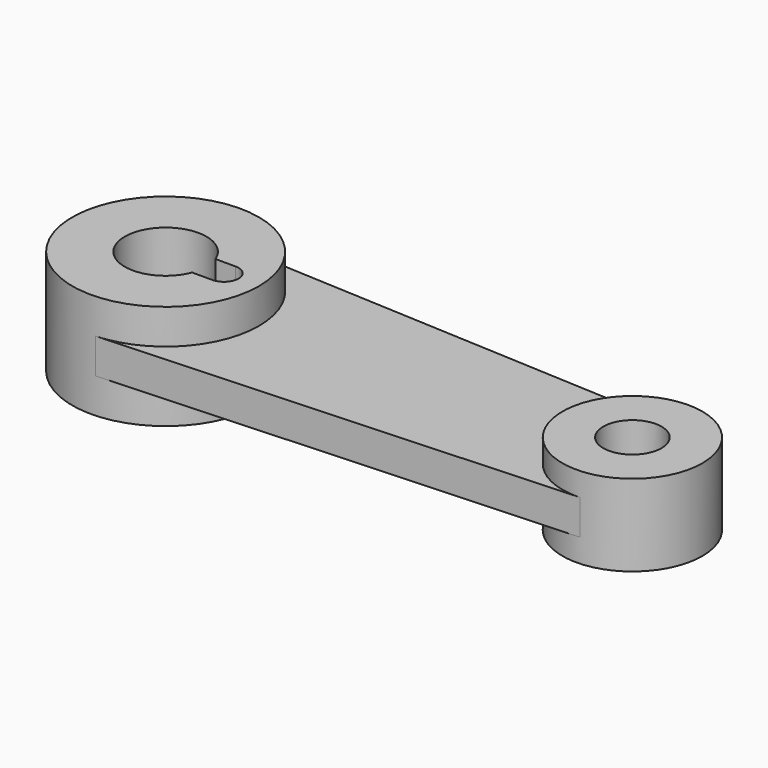
from build123d import *

# Parameters (mm, degrees)
F0_R          = 16
F1_DEPTH      = 9
F1_DEPTH_BACK = 9
F2_R          = 12
F3_DEPTH      = 7
F3_DEPTH_BACK = 7
F5_DEPTH      = 3
F5_DEPTH_BACK = 3
F7_DEPTH      = 18.001
F8_R          = 5
F9_DEPTH      = 16.001


with BuildPart() as f1:
    # F0 (on Top) → F1 (new body, two sides)
    with BuildSketch(Plane.XY) as f1_sk:
        Circle(F0_R)
    extrude(amount=F1_DEPTH)
    extrude(f1_sk.sketch, amount=-F1_DEPTH_BACK)



with BuildPart() as f3:
    # F2 (on Top) → F3 (new body, two sides)
    with BuildSketch(Plane.XY) as f3_sk:
        with Locations((80, 0)):
            Circle(F2_R)
    extrude(amount=F3_DEPTH)
    extrude(f3_sk.sketch, amount=-F3_DEPTH_BACK)


with BuildPart() as f1_1:
    add(f1.part)

    add(f3.part)  # F5 merges F3
    # F4 (on Top) → F5 (join, two sides)
    with BuildSketch(Plane.XY) as f5_sk:
        Polygon((80.6, 11.9849906133), (0.8, 15.9799874844), (0.8, -15.9799874844), (80.6, -11.9849906133), align=None)
    extrude(amount=F5_DEPTH)
    extrude(f5_sk.sketch, amount=-F5_DEPTH_BACK)

    # F6 (on face) → F7 (cut, through all)
    with BuildSketch(Plane.XY.offset(9)):
        with BuildLine():
            Line((10, 2.5), (6.5383484153, 2.5))
            ThreePointArc((6.5383484153, 2.5), (-7, 0), (6.5383484153, -2.5))
            Line((6.5383484153, -2.5), (10, -2.5))
            ThreePointArc((10, -2.5), (12.5, 0), (10, 2.5))
        make_face()
    extrude(amount=-F7_DEPTH, mode=Mode.SUBTRACT)

    # F8 (on face) → F9 (cut, through all)
    with BuildSketch(Plane.XY.offset(7)):
        with Locations((80, 0)):
            Circle(F8_R)
    extrude(amount=-F9_DEPTH, mode=Mode.SUBTRACT)


solid = f1_1.part
